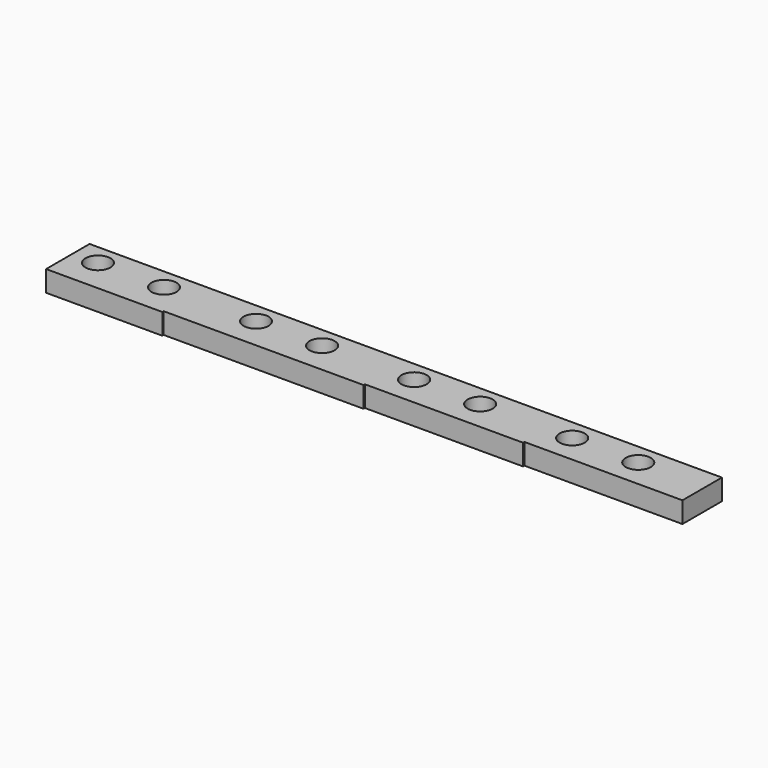
from build123d import *

# Parameters (mm, degrees)
F0_W     = 17.653
F0_H     = 1.651
F0_H_2   = 6.35
F0_R     = 1.905
F0_H_3   = 1.397
F0_H_4   = 1.143
F1_DEPTH = 3.175


with BuildPart() as f1:
    # F0 (on Top) → F1 (new body)
    with BuildSketch(Plane.XY):
        with Locations((0, -4.0005)):
            Rectangle(F0_W, F0_H)
        Rectangle(F0_W, F0_H_2)
        with Locations((-5.0165, 0)):
            Circle(F0_R, mode=Mode.SUBTRACT)
        with Locations((5.0165, 0)):
            Circle(F0_R, mode=Mode.SUBTRACT)
        Polygon((8.8265, 3.175), (8.8265, -3.175), (8.8265, -4.826), (12.0015, -4.826), (12.0015, 3.175), align=None)
        Polygon((-8.8265, -4.826), (-8.8265, -3.175), (-8.8265, 3.175), (-12.0015, 3.175), (-12.0015, -4.826), align=None)
        Polygon((15.1765, 3.175), (12.0015, 3.175), (12.0015, -4.826), (15.1765, -4.826), (15.1765, -4.572), (15.1765, -3.175), align=None)
        Polygon((-12.0015, -4.826), (-12.0015, 3.175), (-15.1765, 3.175), (-15.1765, -3.175), (-15.1765, -4.826), align=None)
        with Locations((24.003, 0)):
            Rectangle(F0_W, F0_H_2)
        with Locations((18.9865, 0)):
            Circle(F0_R, mode=Mode.SUBTRACT)
        with Locations((29.0195, 0)):
            Circle(F0_R, mode=Mode.SUBTRACT)
        with Locations((-24.003, 0)):
            Rectangle(F0_W, F0_H_2)
        with Locations((-29.0195, 0)):
            Circle(F0_R, mode=Mode.SUBTRACT)
        with Locations((-18.9865, 0)):
            Circle(F0_R, mode=Mode.SUBTRACT)
        Polygon((-15.1765, -5.08), (-15.1765, -4.826), (-15.1765, -3.175), (-32.8295, -3.175), (-32.8295, -5.08), align=None)
        with Locations((24.003, -3.8735)):
            Rectangle(F0_W, F0_H_3)
        Polygon((36.0045, 3.175), (32.8295, 3.175), (32.8295, -3.175), (32.8295, -4.572), (36.0045, -4.572), align=None)
        Polygon((39.1795, 3.175), (36.0045, 3.175), (36.0045, -4.572), (39.1795, -4.572), (39.1795, -4.318), (39.1795, -3.175), align=None)
        with Locations((48.006, 0)):
            Rectangle(F0_W, F0_H_2)
        with Locations((42.9895, 0)):
            Circle(F0_R, mode=Mode.SUBTRACT)
        with Locations((53.0225, 0)):
            Circle(F0_R, mode=Mode.SUBTRACT)
        with Locations((48.006, -3.7465)):
            Rectangle(F0_W, F0_H_4)
        Polygon((63.1825, 3.175), (56.8325, 3.175), (56.8325, -3.175), (56.8325, -4.318), (63.1825, -4.318), align=None)
    extrude(amount=F1_DEPTH)


solid = f1.part
